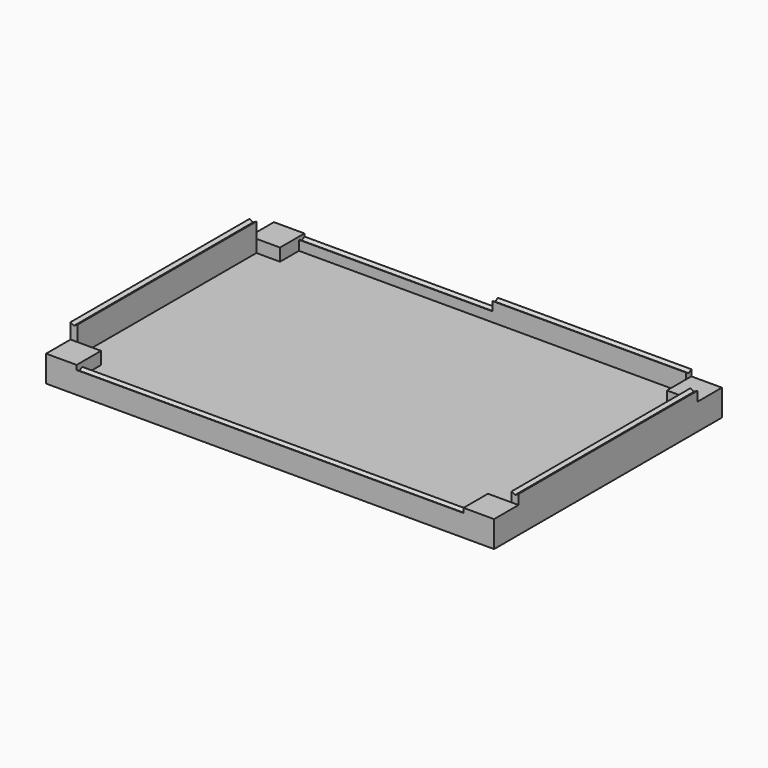
from build123d import *

# Parameters (mm, degrees)
SKETCH028_W     = 129
SKETCH028_H     = 82
PAD009_DEPTH    = 2
SKETCH030_W     = 2
SKETCH030_H     = 64.4
PAD010_DEPTH    = 10
SKETCH031_W     = 2
SKETCH031_H     = 64.4
PAD011_DEPTH    = 8.4
SKETCH032_W     = 111.4
SKETCH032_H     = 2
PAD012_DEPTH    = 4.3
SKETCH033_W     = 55.7
SKETCH033_H     = 2
PAD013_DEPTH    = 4.8
SKETCH034_W     = 55.7
SKETCH034_H     = 2
PAD014_DEPTH    = 7.4
POCKET009_DEPTH = 10000
POCKET010_DEPTH = 1000
POCKET011_DEPTH = 1000
POCKET012_DEPTH = 1000
POCKET013_DEPTH = 55.7
SKETCH040_W     = 8.8
SKETCH040_H     = 8.8
PAD015_DEPTH    = 5.6
PAD016_DEPTH    = 2


with BuildPart() as part:
    # Sketch028 → Pad009 (new body)
    with BuildSketch(Plane.XY):
        Rectangle(SKETCH028_W, SKETCH028_H)
    extrude(amount=-PAD009_DEPTH)

    # Sketch030 (on Face5 of Pad009) → Pad010 (join)
    with BuildSketch(Plane.XY):
        with Locations((-63.5, 0)):
            Rectangle(SKETCH030_W, SKETCH030_H)
    extrude(amount=PAD010_DEPTH)

    # Sketch031 (on Face4 of Pad010) → Pad011 (join)
    with BuildSketch(Plane.XY):
        with Locations((63.5, 0)):
            Rectangle(SKETCH031_W, SKETCH031_H)
    extrude(amount=PAD011_DEPTH)

    # Sketch032 (on Face4 of Pad011) → Pad012 (join)
    with BuildSketch(Plane.XY):
        with Locations((0, -40)):
            Rectangle(SKETCH032_W, SKETCH032_H)
    extrude(amount=PAD012_DEPTH)

    # Sketch033 (on Face4 of Pad012) → Pad013 (join)
    with BuildSketch(Plane.XY):
        with Locations((-27.85, 40)):
            Rectangle(SKETCH033_W, SKETCH033_H)
    extrude(amount=PAD013_DEPTH)

    # Sketch034 (on Face4 of Pad013) → Pad014 (join)
    with BuildSketch(Plane.XY):
        with Locations((27.85, 40)):
            Rectangle(SKETCH034_W, SKETCH034_H)
    extrude(amount=PAD014_DEPTH)

    # Sketch035 (on Face15 of Pad014) → Pocket009 (cut)
    with BuildSketch(Plane(origin=(0, 32.2, 0), x_dir=(-1, 0, 0), z_dir=(0, 1, 0))):
        Polygon((-64.5, 8.4), (-62.5, 8.4), (-63.5, 7.8226497308), align=None)
    extrude(amount=-POCKET009_DEPTH, mode=Mode.SUBTRACT)

    # Sketch036 (on Face18 of Pocket009) → Pocket010 (cut)
    with BuildSketch(Plane.YZ.offset(55.7)):
        Polygon((-41, 4.3), (-39, 4.3), (-40, 3.7226497308), align=None)
    extrude(amount=-POCKET010_DEPTH, mode=Mode.SUBTRACT)

    # Sketch037 (on Face21 of Pocket010) → Pocket011 (cut)
    with BuildSketch(Plane.XZ.offset(32.2)):
        Polygon((-64.5, 10), (-62.5, 10), (-63.5, 9.4226497308), align=None)
    extrude(amount=-POCKET011_DEPTH, mode=Mode.SUBTRACT)

    # Sketch038 (on Face14 of Pocket011) → Pocket012 (cut)
    with BuildSketch(Plane.YZ.offset(55.7)):
        Polygon((39, 7.4), (41, 7.4), (40, 6.8226497308), align=None)
    extrude(amount=-POCKET012_DEPTH, mode=Mode.SUBTRACT)

    # Sketch039 (on Face11 of Pocket012) → Pocket013 (cut)
    with BuildSketch(Plane(origin=(-55.7, 0, 0), x_dir=(0, -1, 0), z_dir=(-1, 0, 0))):
        Polygon((-41, 4.8), (-39, 4.8), (-40, 4.2226497309), align=None)
    extrude(amount=-POCKET013_DEPTH, mode=Mode.SUBTRACT)

    # Sketch040 (on Face4 of Pocket013) → Pad015 (join)
    with BuildSketch(Plane.XY):
        with Locations((60.1, 36.6)):
            Rectangle(SKETCH040_W, SKETCH040_H)
        with Locations((-60.1, 36.6)):
            Rectangle(SKETCH040_W, SKETCH040_H)
        with Locations((-60.1, -36.6)):
            Rectangle(SKETCH040_W, SKETCH040_H)
        with Locations((60.1, -36.6)):
            Rectangle(SKETCH040_W, SKETCH040_H)
    extrude(amount=PAD015_DEPTH)

    # Pad015 Face34 → Pad016 (add)
    with BuildSketch(Plane(origin=(0, 0, 0), x_dir=(0, 1, 0), z_dir=(0, 0, 1))):
        Polygon((39, 0), (39, 55.7), (32.2, 55.7), (32.2, 62.5), (-32.2, 62.5), (-32.2, 55.7), (-39, 55.7), (-39, -55.7), (-32.2, -55.7), (-32.2, -62.5), (32.2, -62.5), (32.2, -55.7), (39, -55.7), align=None)
    extrude(amount=PAD016_DEPTH)


solid = part.part
